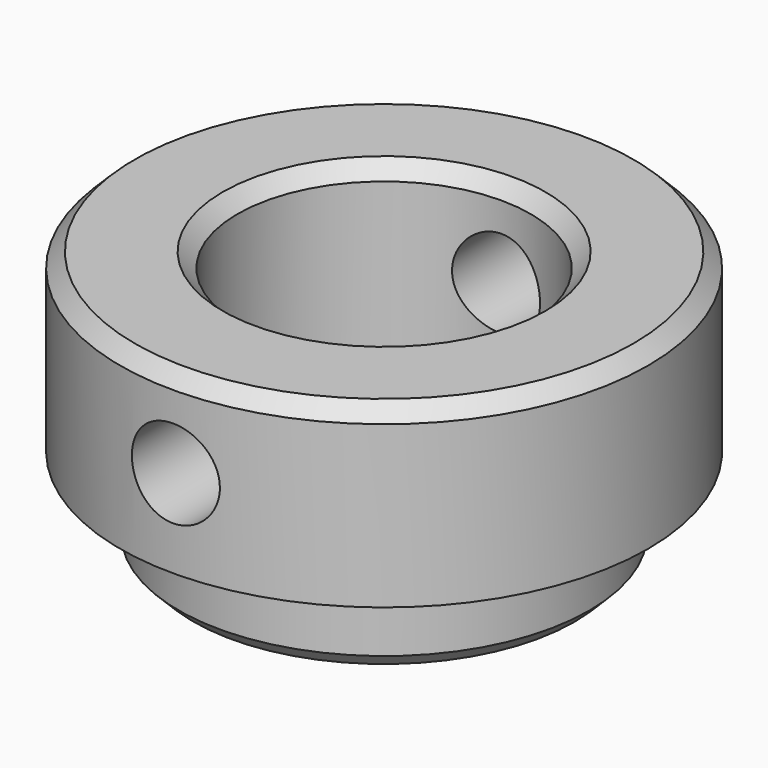
from build123d import *

# Parameters (mm, degrees)
F0_R     = 7
F0_R_2   = 5
F1_DEPTH = 3
F2_R     = 9
F2_R_2   = 5
F3_DEPTH = 6
F4_R     = 1.5
F5_DEPTH = 12.5
F6_SIZE  = 0.5


with BuildPart() as f1:
    # F0 (on Top) → F1 (new body)
    with BuildSketch(Plane.XY):
        Circle(F0_R)
        Circle(F0_R_2, mode=Mode.SUBTRACT)
    extrude(amount=F1_DEPTH)

    # F2 (on face) → F3 (join)
    with BuildSketch(Plane.XY.offset(3)):
        Circle(F2_R)
        Circle(F2_R_2, mode=Mode.SUBTRACT)
    extrude(amount=F3_DEPTH)

    # F4 (on Front) → F5 (cut, symmetric)
    with BuildSketch(Plane.XZ):
        with Locations((0, 6)):
            Circle(F4_R)
    extrude(amount=F5_DEPTH, both=True, mode=Mode.SUBTRACT)

    # F6
    f6_edges = [f1.edges().sort_by_distance(p)[0] for p in [
        (-9, 0, 9),
        (-7, 0, 0),
        (-5, 0, 9),
        (-5, 0, 0),
    ]]
    chamfer(f6_edges, length=F6_SIZE)


solid = f1.part
